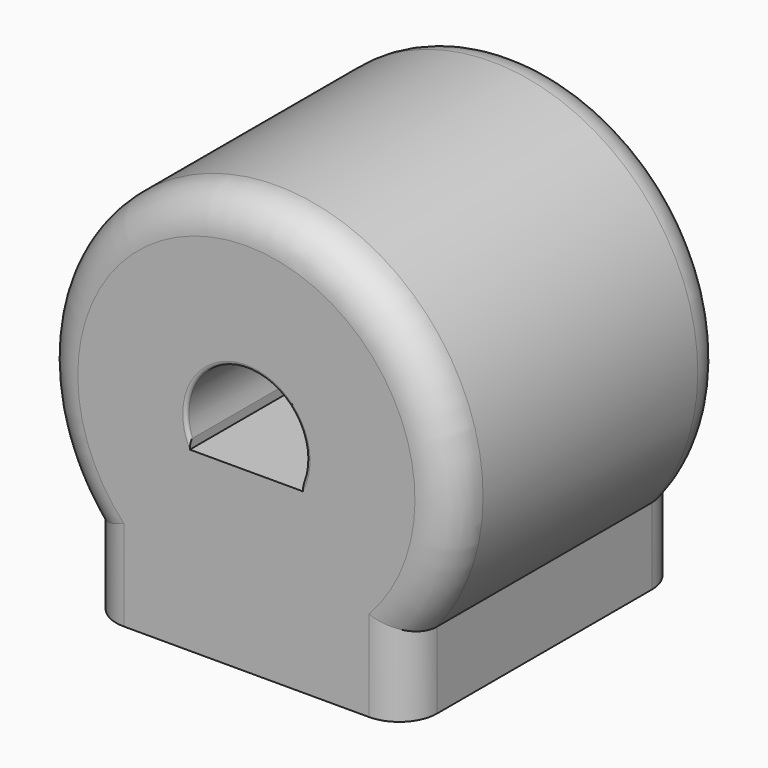
from build123d import *

# Parameters (mm, degrees)
F0_R     = 350
F1_DEPTH = 2000
F2_R     = 220
F4_DEPTH = 2000.001
F6_DEPTH = 2000
F7_R     = 20


with BuildPart() as f1:
    # F0 (on Front) → F1 (new body)
    with BuildSketch(Plane.XZ):
        with BuildLine():
            Line((932.57199, -1200), (932.57199, -755.188376))
            ThreePointArc((932.57199, -755.188376), (0, 1200), (-932.57199, -755.188376))
            Line((-932.57199, -755.188376), (-932.57199, -1200))
            Line((-932.57199, -1200), (0, -1200))
            Line((0, -1200), (932.57199, -1200))
        make_face()
        Circle(F0_R, mode=Mode.SUBTRACT)
    extrude(amount=F1_DEPTH)

    # F2
    f2_edges = [f1.edges().sort_by_distance(p)[0] for p in [
        (0, -2000, 1200),
        (0, 0, 1200),
        (932.57199, -2000, -977.594188),
        (-932.57199, -2000, -977.594188),
        (932.57199, 0, -977.594188),
        (-932.57199, 0, -977.594188),
    ]]
    fillet(f2_edges, radius=F2_R)

    # F3 (on face) → F4 (cut, through all)
    with BuildSketch(Plane(origin=(0, 0, 0), x_dir=(-1, 0, 0), z_dir=(0, 1, 0))):
        Polygon((328.785644, -120), (0, -120), (-328.785644, -120), (-328.785644, -170), (0, -170), (328.785644, -170), align=None)
    extrude(amount=-F4_DEPTH, mode=Mode.SUBTRACT)

    # F5 (on face) → F6 (join, through all)
    with BuildSketch(Plane(origin=(0, 0, 0), x_dir=(-1, 0, 0), z_dir=(0, 1, 0))):
        Polygon((305.941171, -170), (-305.941171, -170), (-287.25341, -350), (0, -350), (287.25341, -350), align=None)
    extrude(amount=-F6_DEPTH)

    # F7
    f7_edges = [f1.edges().sort_by_distance(p)[0] for p in [
        (0, 0, 350),
        (0, -2000, 350),
    ]]
    fillet(f7_edges, radius=F7_R)


solid = f1.part
